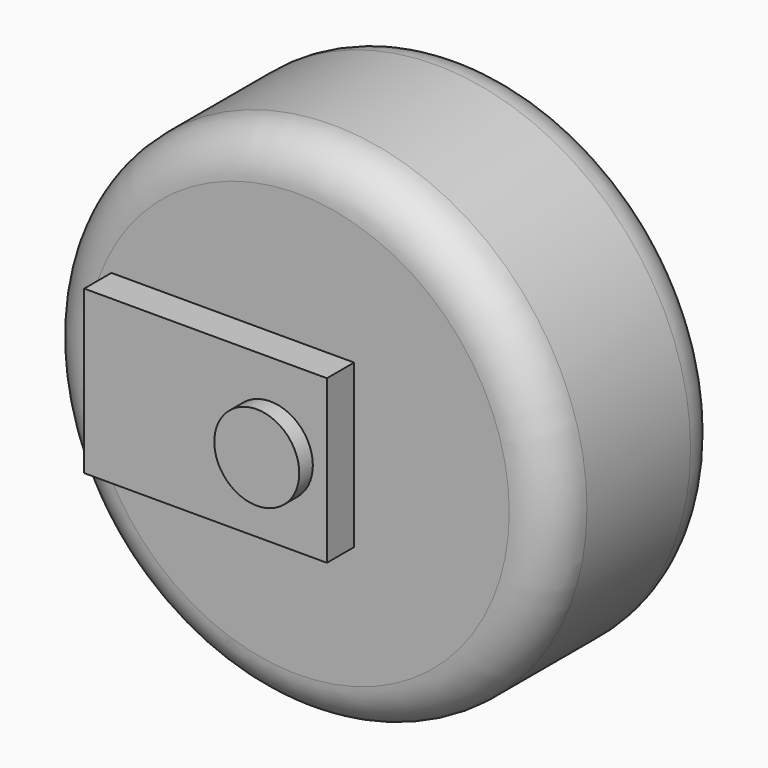
from build123d import *

# Parameters (mm, degrees)
F0_R     = 30
F1_DEPTH = 25.4
F2_R     = 5.08
F3_R     = 24.92
F3_R_2   = 5
F4_DEPTH = 25.4
F6_R     = 5
F7_DEPTH = 6
F8_W     = 28.566352
F8_H     = 19.124932
F9_DEPTH = 4


with BuildPart() as f1:
    # F0 (on Front) → F1 (new body)
    with BuildSketch(Plane.XZ):
        Circle(F0_R)
    extrude(amount=F1_DEPTH)

    # F2
    f2_edges = [f1.edges().sort_by_distance(p)[0] for p in [
        (-30, -25.4, 0),
        (-30, 0, 0),
    ]]
    fillet(f2_edges, radius=F2_R)

    # F3 (on face) → F4 (join)
    with BuildSketch(Plane.XZ.offset(25.4)):
        Circle(F3_R)
        Circle(F3_R_2, mode=Mode.SUBTRACT)
        Circle(F3_R_2)
    extrude(amount=-F4_DEPTH)

    # F6 (on face) → F7 (join)
    with BuildSketch(Plane.XZ.offset(25.4)):
        Circle(F6_R)
    extrude(amount=F7_DEPTH)


with BuildPart() as f9:
    # F8 (on face) → F9 (new body, symmetric)
    with BuildSketch(Plane.XZ.offset(25.4)):
        with Locations((-7.625764, 0)):
            Rectangle(F8_W, F8_H)
    extrude(amount=F9_DEPTH, both=True)


solid = Compound([f1.part, f9.part])
